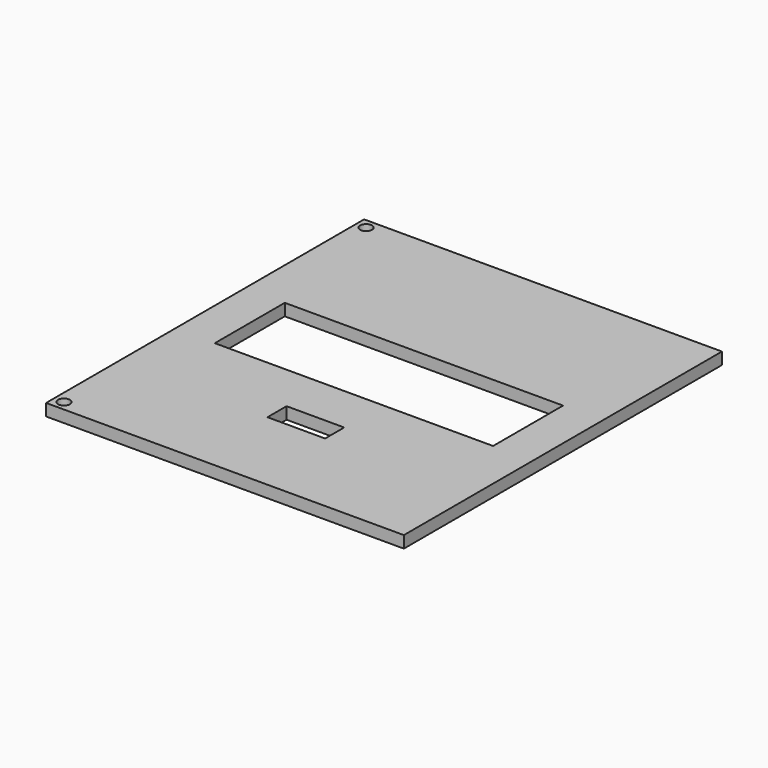
from build123d import *

# Parameters (mm, degrees)
F1_DEPTH = 3
F2_D     = 3


with BuildPart() as f1:
    # F0 (on Top) → F1 (new body)
    with BuildSketch(Plane.XY):
        Polygon((-15, 50), (-60, 50), (-60, -50), (-15, -50), (-15, -27.577588), (-22.25, -27.577588), (-22.25, -21.577588), (-15, -21.577588), (-15, -9.4517), (-50, -9.4517), (-50, 12.5483), (-15, 12.5483), align=None)
        Polygon((30, 50), (-15, 50), (-15, 12.5483), (20, 12.5483), (20, -9.4517), (-15, -9.4517), (-15, -21.577588), (-7.75, -21.577588), (-7.75, -27.577588), (-15, -27.577588), (-15, -50), (30, -50), align=None)
    extrude(amount=F1_DEPTH)

    # F2 (through all)
    with Locations(Plane(origin=(0, 0, 0), x_dir=(1, 0, 0), z_dir=(0, 0, -1))):
        with Locations((-57.5, 47.5), (57.5, 47.5), (57.5, -47.5), (-57.5, -47.5)):
            Hole(F2_D / 2)


solid = f1.part
